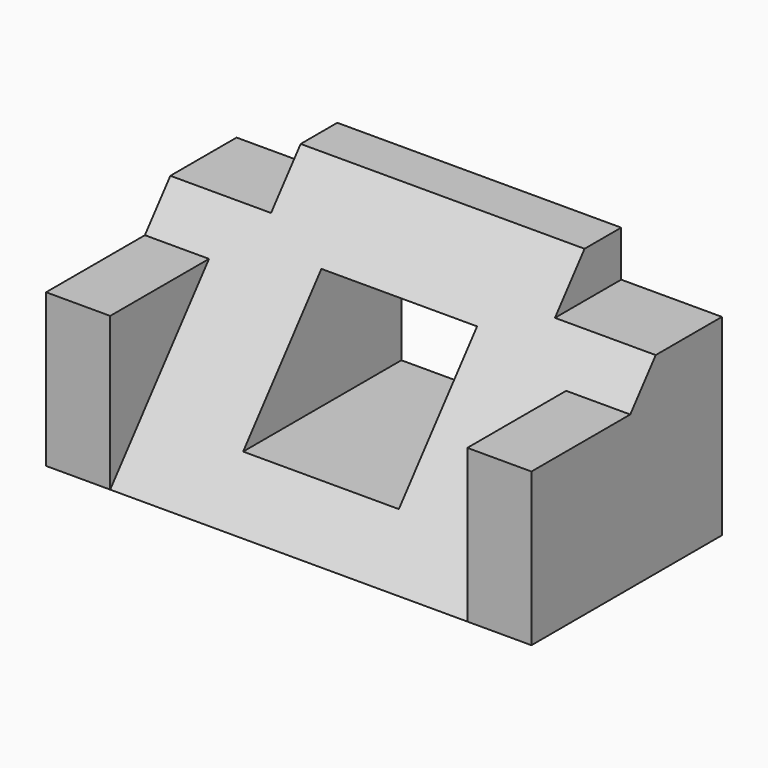
from build123d import *

# Parameters (mm, degrees)
PAD_DEPTH       = 26.5
PAD_DEPTH_BACK  = 26.5
SKETCH001_W     = 5
SKETCH001_H     = 11
POCKET_DEPTH    = 155.012627
SKETCH002_W     = 16.7
SKETCH002_H     = 7
PAD001_DEPTH    = 26
SKETCH004_W     = 13.225
SKETCH004_H     = 17
POCKET001_DEPTH = 26.001


with BuildPart() as part:
    # Sketch → Pad (new body, two sides)
    with BuildSketch(Plane.YZ) as pad_sk:
        Polygon((0, 0), (0, 26), (-5, 26), (-26, 0), align=None)
    extrude(amount=PAD_DEPTH)
    extrude(pad_sk.sketch, amount=-PAD_DEPTH_BACK)

    # Sketch001 (on Face1 of Pad) → Pocket (cut, through all)
    with BuildSketch(Plane.ZX):
        with Locations((23.5, 21)):
            Rectangle(SKETCH001_W, SKETCH001_H)
    pocket = extrude(amount=-POCKET_DEPTH, mode=Mode.SUBTRACT)

    # Mirrored: Pocket across Sketch001 H_Axis
    add(pocket.mirror(Plane.YZ), mode=Mode.SUBTRACT)

    # Sketch002 (on Face1 of Mirrored) → Pad001 (join)
    with BuildSketch(Plane.ZX):
        with Locations((8.35, 23)):
            Rectangle(SKETCH002_W, SKETCH002_H)
    pad001 = extrude(amount=-PAD001_DEPTH)

    # Mirrored001: Pad001 across Sketch002 H_Axis
    add(pad001.mirror(Plane.YZ))

    # Sketch004 (on Face3 of Mirrored001) → Pocket001 (cut, through all)
    with BuildSketch(Plane.ZX):
        with Locations((12.058088, 0)):
            Rectangle(SKETCH004_W, SKETCH004_H)
    extrude(amount=-POCKET001_DEPTH, mode=Mode.SUBTRACT)


solid = part.part
